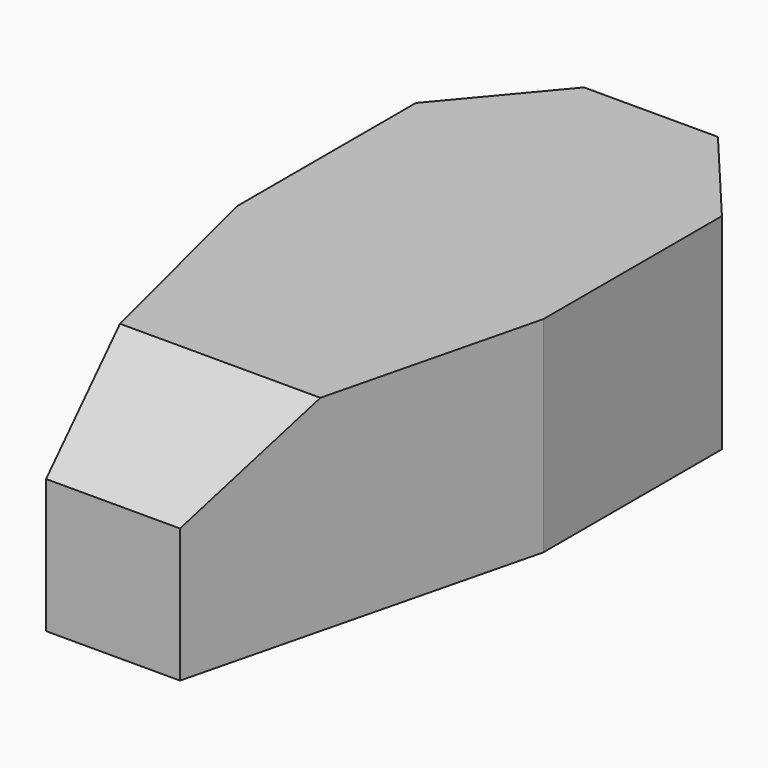
from build123d import *

# Parameters (mm, degrees)
F1_DEPTH = 23
F3_DEPTH = 35


with BuildPart() as f1:
    # F0 (on Top) → F1 (new body)
    with BuildSketch(Plane.XY):
        Polygon((7.5, 23.990667), (-7.5, 23.990667), (-17.141814, 12.5), (-17.141814, -12.5), (-7.5, -51.320554), (7.5, -51.320554), (17.141814, -12.5), (17.141814, 12.5), align=None)
    extrude(amount=F1_DEPTH)

    # F2 (on face) → F3 (cut)
    with BuildSketch(Plane(origin=(-17.141814, 0, 0), x_dir=(0, -1, 0), z_dir=(-1, 0, 0))):
        Polygon((36.320554, 23), (51.320554, 15), (51.320554, 23), align=None)
    extrude(amount=-F3_DEPTH, mode=Mode.SUBTRACT)


solid = f1.part
